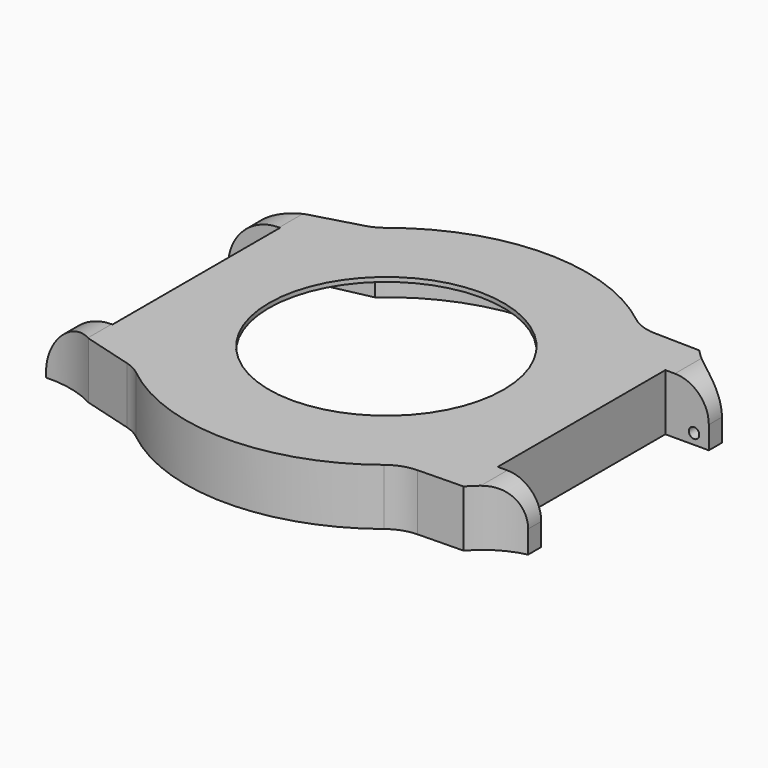
from build123d import *

# Parameters (mm, degrees)
PAD_DEPTH       = 6.5
POCKET_DEPTH    = 6
SKETCH002_R     = 13.5
POCKET001_DEPTH = 1
SKETCH003_W     = 4.9
SKETCH003_H     = 6.5
PAD001_DEPTH    = 5
POCKET002_DEPTH = 10
SKETCH008_R     = 0.6
POCKET003_DEPTH = 2
SKETCH009_R     = 0.6
POCKET004_DEPTH = 2
FILLET_R        = 3.9
FILLET001_R     = 3.9
FILLET002_R     = 5
FILLET003_R     = 5
FILLET004_R     = 5
FILLET005_R     = 5
SKETCH010_W     = 3.45
SKETCH010_H     = 6.5
PAD002_DEPTH    = 6
POCKET005_DEPTH = 10
SKETCH012_R     = 0.6
POCKET006_DEPTH = 2
SKETCH013_R     = 0.6
POCKET007_DEPTH = 2
FILLET006_R     = 5.9
FILLET007_R     = 5.9


with BuildPart() as part:
    # Sketch → Pad (new body)
    with BuildSketch(Plane.XY):
        with BuildLine():
            Line((-21.862293, 15.5), (-21.862293, -15.5))
            Line((-21.862293, -15.5), (-15.125083, -17.4))
            ThreePointArc((-15.125083, -17.4), (0.226102, -23.053785), (15.463446, -17.1))
            Line((15.463446, -17.1), (22.461838, -16.95))
            Line((22.461838, 16.95), (22.461838, -16.95))
            Line((15.463446, 17.1), (22.461838, 16.95))
            ThreePointArc((15.463446, 17.1), (0.226102, 23.053785), (-15.125083, 17.4))
            Line((-21.862293, 15.5), (-15.125083, 17.4))
        make_face()
    extrude(amount=PAD_DEPTH)

    # Sketch001 → Pocket (cut)
    with BuildSketch(Plane.XY):
        with BuildLine():
            Line((-14.55, 16.55), (-20.805997, 15.2))
            Line((-20.805997, 15.2), (-20.805997, -15.2))
            Line((-20.805997, -15.2), (-14.55, -16.55))
            ThreePointArc((-14.55, -16.55), (0, -22.036447), (14.55, -16.55))
            Line((14.55, -16.55), (21.832857, -16.05))
            Line((21.832857, 16.05), (21.832857, -16.05))
            Line((14.55, 16.55), (21.832857, 16.05))
            ThreePointArc((14.55, 16.55), (0, 22.036447), (-14.55, 16.55))
        make_face()
    extrude(amount=POCKET_DEPTH, mode=Mode.SUBTRACT)

    # Sketch002 (on Face19 of Pocket) → Pocket001 (cut)
    with BuildSketch(Plane(origin=(0, 0, 6), x_dir=(1, 0, 0), z_dir=(0, 0, -1))):
        Circle(SKETCH002_R)
    extrude(amount=-POCKET001_DEPTH, mode=Mode.SUBTRACT)

    # Sketch003 (on Face6 of Pocket001) → Pad001 (join)
    with BuildSketch(Plane.YZ.offset(22.461838)):
        with Locations((-14.5, 3.25)):
            Rectangle(SKETCH003_W, SKETCH003_H)
        with Locations((14.5, 3.25)):
            Rectangle(SKETCH003_W, SKETCH003_H)
    extrude(amount=PAD001_DEPTH)

    # Sketch006 → Pocket002 (cut)
    with BuildSketch(Plane.XY.offset(10)):
        with BuildLine():
            ThreePointArc((22.461838, 16.95), (24.723382, 15.046575), (27.461838, 13.93371))
            Line((27.461838, 16.95), (27.461838, 13.93371))
            Line((27.461838, 16.95), (22.461838, 16.95))
        make_face()
        with BuildLine():
            ThreePointArc((27.461838, -13.93371), (24.723382, -15.046575), (22.461838, -16.95))
            Line((27.461838, -16.95), (22.461838, -16.95))
            Line((27.461838, -13.93371), (27.461838, -16.95))
        make_face()
    extrude(amount=-POCKET002_DEPTH, mode=Mode.SUBTRACT)

    # Sketch008 (on Face27 of Pocket002) → Pocket003 (cut)
    with BuildSketch(Plane(origin=(0, -12.05, 0), x_dir=(-1, 0, 0), z_dir=(0, 1, 0))):
        with Locations((-25.761838, 1.2)):
            Circle(SKETCH008_R)
    extrude(amount=-POCKET003_DEPTH, mode=Mode.SUBTRACT)

    # Sketch009 (on Face26 of Pocket003) → Pocket004 (cut)
    with BuildSketch(Plane.XZ.offset(-12.05)):
        with Locations((25.761838, 1.2)):
            Circle(SKETCH009_R)
    extrude(amount=-POCKET004_DEPTH, mode=Mode.SUBTRACT)

    # Fillet
    fillet_edges = [part.edges().sort_by_distance(p)[0] for p in [
        (27.461838, -12.991855, 6.5),
    ]]
    fillet(fillet_edges, radius=FILLET_R)

    # Fillet001
    fillet001_edges = [part.edges().sort_by_distance(p)[0] for p in [
        (27.461838, 12.991855, 6.5),
    ]]
    fillet(fillet001_edges, radius=FILLET001_R)

    # Fillet002
    fillet002_edges = [part.edges().sort_by_distance(p)[0] for p in [
        (15.463446, -17.1, 3.25),
    ]]
    fillet(fillet002_edges, radius=FILLET002_R)

    # Fillet003
    fillet003_edges = [part.edges().sort_by_distance(p)[0] for p in [
        (15.463446, 17.1, 3.25),
    ]]
    fillet(fillet003_edges, radius=FILLET003_R)

    # Fillet004
    fillet004_edges = [part.edges().sort_by_distance(p)[0] for p in [
        (-15.125083, -17.4, 3.25),
    ]]
    fillet(fillet004_edges, radius=FILLET004_R)

    # Fillet005
    fillet005_edges = [part.edges().sort_by_distance(p)[0] for p in [
        (-15.125083, 17.4, 3.25),
    ]]
    fillet(fillet005_edges, radius=FILLET005_R)

    # Sketch010 (on Face4 of Fillet005) → Pad002 (join)
    with BuildSketch(Plane(origin=(-21.862293, 0, 0), x_dir=(0, -1, 0), z_dir=(-1, 0, 0))):
        with Locations((-13.775, 3.25)):
            Rectangle(SKETCH010_W, SKETCH010_H)
        with Locations((13.775, 3.25)):
            Rectangle(SKETCH010_W, SKETCH010_H)
    extrude(amount=PAD002_DEPTH)

    # Sketch011 (on Face6 of Pad002) → Pocket005 (cut)
    with BuildSketch(Plane.XY.offset(6.5)):
        with BuildLine():
            ThreePointArc((-27.862293, 14.1), (-24.766364, 14.388874), (-21.862293, 15.5))
            Line((-21.862293, 15.5), (-27.862293, 15.5))
            Line((-27.862293, 15.5), (-27.862293, 14.1))
        make_face()
        with BuildLine():
            ThreePointArc((-21.862293, -15.5), (-24.766364, -14.388874), (-27.862293, -14.1))
            Line((-27.862293, -14.1), (-27.862293, -15.5))
            Line((-27.862293, -15.5), (-21.862293, -15.5))
        make_face()
    extrude(amount=-POCKET005_DEPTH, mode=Mode.SUBTRACT)

    # Sketch012 (on Face23 of Pocket005) → Pocket006 (cut)
    with BuildSketch(Plane(origin=(0, -12.05, 0), x_dir=(-1, 0, 0), z_dir=(0, 1, 0))):
        with Locations((26.162293, 1.2)):
            Circle(SKETCH012_R)
    extrude(amount=-POCKET006_DEPTH, mode=Mode.SUBTRACT)

    # Sketch013 (on Face21 of Pocket006) → Pocket007 (cut)
    with BuildSketch(Plane.XZ.offset(-12.05)):
        with Locations((-26.162293, 1.2)):
            Circle(SKETCH013_R)
    extrude(amount=-POCKET007_DEPTH, mode=Mode.SUBTRACT)

    # Fillet006
    fillet006_edges = [part.edges().sort_by_distance(p)[0] for p in [
        (-27.862293, 13.075, 6.5),
    ]]
    fillet(fillet006_edges, radius=FILLET006_R)

    # Fillet007
    fillet007_edges = [part.edges().sort_by_distance(p)[0] for p in [
        (-27.862293, -13.075, 6.5),
    ]]
    fillet(fillet007_edges, radius=FILLET007_R)


solid = part.part
